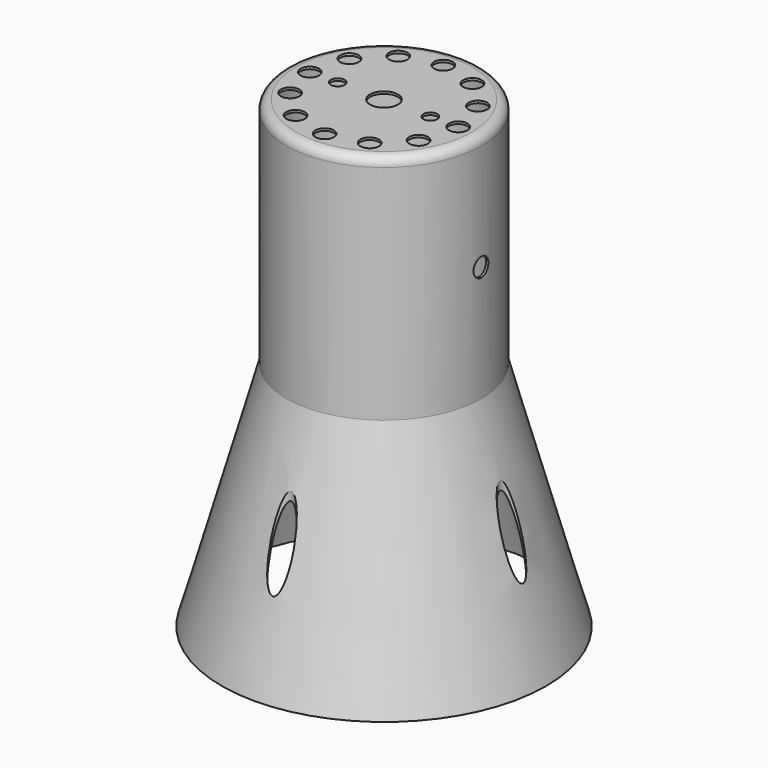
from build123d import *

# Parameters (mm, degrees)
F0_W     = 21
F0_H     = 50
F2_R     = 2
F3_T     = -0.5
F5_DEPTH = 63.2
F6_R     = 1.5
F7_DEPTH = 2.2
F9_DEPTH = 23.7


with BuildPart() as f1:
    # F0 (on Front) → F1 (revolve)
    with BuildSketch(Plane.XZ):
        with Locations((-10.5, 25)):
            Rectangle(F0_W, F0_H)
        Polygon((0, -50), (0, 0), (-21, 0), (-35, -50), align=None)
    revolve(axis=Axis((0, 0, 25), (0, 0, 1)))

    # F2
    f2_edges = [f1.edges().sort_by_distance(p)[0] for p in [
        (21, 0, 50),
    ]]
    fillet(f2_edges, radius=F2_R)

    # F3
    f3_openings = [f1.faces().sort_by_distance(p)[0] for p in [
        (0, 0, -50),
    ]]
    offset(amount=F3_T, openings=f3_openings, kind=Kind.INTERSECTION)

    # F4 (on Top) → F5 (cut)
    with BuildSketch(Plane.XY):
        with BuildLine():
            ThreePointArc((-2.49741602, 27.3863636364), (0, 27.5), (2.49741602, 27.3863636364))
            ThreePointArc((2.49741602, 27.3863636364), (2.4993539215, 27.4431671308), (2.5, 27.5))
            ThreePointArc((2.5, 27.5), (-0.0568328692, 29.9993539215), (-2.49741602, 27.3863636364))
        make_face()
        with BuildLine():
            ThreePointArc((-2.49741602, 27.3863636364), (0, 25), (2.49741602, 27.3863636364))
            ThreePointArc((2.49741602, 27.3863636364), (0, 27.5), (-2.49741602, 27.3863636364))
        make_face()
        with BuildLine():
            ThreePointArc((-25, 0), (-25.6925029863, 1.7271231993), (-27.3863636364, 2.49741602))
            ThreePointArc((-27.3863636364, 2.49741602), (-27.5, 0), (-27.3863636364, -2.49741602))
            ThreePointArc((-27.3863636364, -2.49741602), (-25.6925029863, -1.7271231993), (-25, 0))
        make_face()
        with BuildLine():
            ThreePointArc((-27.3863636364, -2.49741602), (-27.5, 0), (-27.3863636364, 2.49741602))
            ThreePointArc((-27.3863636364, 2.49741602), (-30, 0), (-27.3863636364, -2.49741602))
        make_face()
        with BuildLine():
            ThreePointArc((27.3863636364, -2.49741602), (27.4715762198, -1.25), (27.5, 0))
            ThreePointArc((27.5, 0), (27.4715762198, 1.25), (27.3863636364, 2.49741602))
            ThreePointArc((27.3863636364, 2.49741602), (25, 0), (27.3863636364, -2.49741602))
        make_face()
        with BuildLine():
            ThreePointArc((27.3863636364, 2.49741602), (27.4715762198, 1.25), (27.5, 0))
            ThreePointArc((27.5, 0), (27.4715762198, -1.25), (27.3863636364, -2.49741602))
            ThreePointArc((27.3863636364, -2.49741602), (29.2271231993, -1.8074970137), (30, 0))
            ThreePointArc((30, 0), (29.2271231993, 1.8074970137), (27.3863636364, 2.49741602))
        make_face()
        with BuildLine():
            ThreePointArc((-2.49741602, -27.3863636364), (0, -27.5), (2.49741602, -27.3863636364))
            ThreePointArc((2.49741602, -27.3863636364), (0, -25), (-2.49741602, -27.3863636364))
        make_face()
        with BuildLine():
            ThreePointArc((2.5, -27.5), (2.4993539215, -27.4431671308), (2.49741602, -27.3863636364))
            ThreePointArc((2.49741602, -27.3863636364), (0, -27.5), (-2.49741602, -27.3863636364))
            ThreePointArc((-2.49741602, -27.3863636364), (-0.0568328692, -29.9993539215), (2.5, -27.5))
        make_face()
    extrude(amount=-F5_DEPTH, mode=Mode.SUBTRACT)

    # F6 (on face) → F7 (cut)
    with BuildSketch(Plane.XY.offset(50)):
        with BuildLine():
            ThreePointArc((-1.9960899278, 15.875), (0, 14), (1.9960899278, 15.875))
            ThreePointArc((1.9960899278, 15.875), (0, 16), (-1.9960899278, 15.875))
        make_face()
        with BuildLine():
            ThreePointArc((-1.9960899278, 15.875), (0, 16), (1.9960899278, 15.875))
            ThreePointArc((1.9960899278, 15.875), (1.999022243, 15.9374694301), (2, 16))
            ThreePointArc((2, 16), (-0.0625305699, 17.999022243), (-1.9960899278, 15.875))
        make_face()
        with BuildLine():
            ThreePointArc((-15.875, -1.9960899278), (-16, 0), (-15.875, 1.9960899278))
            ThreePointArc((-15.875, 1.9960899278), (-18, 0), (-15.875, -1.9960899278))
        make_face()
        with BuildLine():
            ThreePointArc((-14, 0), (-14.5422620263, 1.3693063938), (-15.875, 1.9960899278))
            ThreePointArc((-15.875, 1.9960899278), (-16, 0), (-15.875, -1.9960899278))
            ThreePointArc((-15.875, -1.9960899278), (-14.5422620263, -1.3693063938), (-14, 0))
        make_face()
        with BuildLine():
            ThreePointArc((-1.9960899278, -15.875), (0, -16), (1.9960899278, -15.875))
            ThreePointArc((1.9960899278, -15.875), (0, -14), (-1.9960899278, -15.875))
        make_face()
        with BuildLine():
            ThreePointArc((2, -16), (1.999022243, -15.9374694301), (1.9960899278, -15.875))
            ThreePointArc((1.9960899278, -15.875), (0, -16), (-1.9960899278, -15.875))
            ThreePointArc((-1.9960899278, -15.875), (-0.0625305699, -17.999022243), (2, -16))
        make_face()
        with BuildLine():
            ThreePointArc((16, 0), (15.9687194227, 1), (15.875, 1.9960899278))
            ThreePointArc((15.875, 1.9960899278), (14, 0), (15.875, -1.9960899278))
            ThreePointArc((15.875, -1.9960899278), (15.9687194227, -1), (16, 0))
        make_face()
        with BuildLine():
            ThreePointArc((18, 0), (17.3693063938, 1.4577379737), (15.875, 1.9960899278))
            ThreePointArc((15.875, 1.9960899278), (15.9687194227, 1), (16, 0))
            ThreePointArc((16, 0), (15.9687194227, -1), (15.875, -1.9960899278))
            ThreePointArc((15.875, -1.9960899278), (17.3693063938, -1.4577379737), (18, 0))
        make_face()
        with BuildLine():
            ThreePointArc((12.7501083212, 9.6661645857), (13.3293166859, 8.8503851151), (13.8564064606, 8))
            ThreePointArc((13.8564064606, 8), (14.3293166859, 7.1183343076), (14.746198249, 6.2088354143))
            ThreePointArc((14.746198249, 6.2088354143), (15.5563452208, 6.9463358165), (15.8564064606, 8))
            ThreePointArc((15.8564064606, 8), (14.80176452, 9.7624693301), (12.7501083212, 9.6661645857))
        make_face()
        with BuildLine():
            Line((13.8564064606, 8), (12.124355653, 7))
            ThreePointArc((12.124355653, 7), (13.2786215401, 6.0852768906), (14.746198249, 6.2088354143))
            ThreePointArc((14.746198249, 6.2088354143), (14.3293166859, 7.1183343076), (13.8564064606, 8))
        make_face()
        with BuildLine():
            ThreePointArc((12.7501083212, 9.6661645857), (11.9093151464, 8.4569851357), (12.124355653, 7))
            Line((12.124355653, 7), (13.8564064606, 8))
            ThreePointArc((13.8564064606, 8), (13.3293166859, 8.8503851151), (12.7501083212, 9.6661645857))
        make_face()
        with BuildLine():
            ThreePointArc((6.2088354143, 14.746198249), (7.1183343076, 14.3293166859), (8, 13.8564064606))
            ThreePointArc((8, 13.8564064606), (8.8503851151, 13.3293166859), (9.6661645857, 12.7501083212))
            ThreePointArc((9.6661645857, 12.7501083212), (9.9147231094, 13.2786215401), (10, 13.8564064606))
            ThreePointArc((10, 13.8564064606), (8.4569851357, 15.8034977747), (6.2088354143, 14.746198249))
        make_face()
        with BuildLine():
            Line((8, 13.8564064606), (7, 12.124355653))
            ThreePointArc((7, 12.124355653), (8.4569851357, 11.9093151464), (9.6661645857, 12.7501083212))
            ThreePointArc((9.6661645857, 12.7501083212), (8.8503851151, 13.3293166859), (8, 13.8564064606))
        make_face()
        with BuildLine():
            ThreePointArc((6.2088354143, 14.746198249), (6.0852768906, 13.2786215401), (7, 12.124355653))
            Line((7, 12.124355653), (8, 13.8564064606))
            ThreePointArc((8, 13.8564064606), (7.1183343076, 14.3293166859), (6.2088354143, 14.746198249))
        make_face()
        with BuildLine():
            ThreePointArc((-9.6661645857, 12.7501083212), (-8.8503851151, 13.3293166859), (-8, 13.8564064606))
            ThreePointArc((-8, 13.8564064606), (-7.1183343076, 14.3293166859), (-6.2088354143, 14.746198249))
            ThreePointArc((-6.2088354143, 14.746198249), (-9, 15.5884572681), (-9.6661645857, 12.7501083212))
        make_face()
        with BuildLine():
            Line((-8, 13.8564064606), (-7, 12.124355653))
            ThreePointArc((-7, 12.124355653), (-6.2679491924, 12.8564064606), (-6, 13.8564064606))
            ThreePointArc((-6, 13.8564064606), (-6.0529086858, 14.3133915963), (-6.2088354143, 14.746198249))
            ThreePointArc((-6.2088354143, 14.746198249), (-7.1183343076, 14.3293166859), (-8, 13.8564064606))
        make_face()
        with BuildLine():
            ThreePointArc((-9.6661645857, 12.7501083212), (-8.4569851357, 11.9093151464), (-7, 12.124355653))
            Line((-7, 12.124355653), (-8, 13.8564064606))
            ThreePointArc((-8, 13.8564064606), (-8.8503851151, 13.3293166859), (-9.6661645857, 12.7501083212))
        make_face()
        with BuildLine():
            ThreePointArc((-14.746198249, 6.2088354143), (-14.3293166859, 7.1183343076), (-13.8564064606, 8))
            ThreePointArc((-13.8564064606, 8), (-13.3293166859, 8.8503851151), (-12.7501083212, 9.6661645857))
            ThreePointArc((-12.7501083212, 9.6661645857), (-15.5884572681, 9), (-14.746198249, 6.2088354143))
        make_face()
        with BuildLine():
            Line((-13.8564064606, 8), (-12.124355653, 7))
            ThreePointArc((-12.124355653, 7), (-11.924554808, 7.4823619098), (-11.8564064606, 8))
            ThreePointArc((-11.8564064606, 8), (-12.0939371305, 8.9453580595), (-12.7501083212, 9.6661645857))
            ThreePointArc((-12.7501083212, 9.6661645857), (-13.3293166859, 8.8503851151), (-13.8564064606, 8))
        make_face()
        with BuildLine():
            ThreePointArc((-14.746198249, 6.2088354143), (-13.2786215401, 6.0852768906), (-12.124355653, 7))
            Line((-12.124355653, 7), (-13.8564064606, 8))
            ThreePointArc((-13.8564064606, 8), (-14.3293166859, 7.1183343076), (-14.746198249, 6.2088354143))
        make_face()
        with BuildLine():
            ThreePointArc((-12.7501083212, -9.6661645857), (-13.3293166859, -8.8503851151), (-13.8564064606, -8))
            ThreePointArc((-13.8564064606, -8), (-14.3293166859, -7.1183343076), (-14.746198249, -6.2088354143))
            ThreePointArc((-14.746198249, -6.2088354143), (-15.5884572681, -9), (-12.7501083212, -9.6661645857))
        make_face()
        with BuildLine():
            Line((-13.8564064606, -8), (-12.124355653, -7))
            ThreePointArc((-12.124355653, -7), (-13.2786215401, -6.0852768906), (-14.746198249, -6.2088354143))
            ThreePointArc((-14.746198249, -6.2088354143), (-14.3293166859, -7.1183343076), (-13.8564064606, -8))
        make_face()
        with BuildLine():
            ThreePointArc((-11.8564064606, -8), (-11.924554808, -7.4823619098), (-12.124355653, -7))
            Line((-12.124355653, -7), (-13.8564064606, -8))
            ThreePointArc((-13.8564064606, -8), (-13.3293166859, -8.8503851151), (-12.7501083212, -9.6661645857))
            ThreePointArc((-12.7501083212, -9.6661645857), (-12.0939371305, -8.9453580595), (-11.8564064606, -8))
        make_face()
        with BuildLine():
            ThreePointArc((-6.2088354143, -14.746198249), (-7.1183343076, -14.3293166859), (-8, -13.8564064606))
            ThreePointArc((-8, -13.8564064606), (-8.8503851151, -13.3293166859), (-9.6661645857, -12.7501083212))
            ThreePointArc((-9.6661645857, -12.7501083212), (-9, -15.5884572681), (-6.2088354143, -14.746198249))
        make_face()
        with BuildLine():
            Line((-8, -13.8564064606), (-7, -12.124355653))
            ThreePointArc((-7, -12.124355653), (-8.4569851357, -11.9093151464), (-9.6661645857, -12.7501083212))
            ThreePointArc((-9.6661645857, -12.7501083212), (-8.8503851151, -13.3293166859), (-8, -13.8564064606))
        make_face()
        with BuildLine():
            ThreePointArc((-6, -13.8564064606), (-6.2679491924, -12.8564064606), (-7, -12.124355653))
            Line((-7, -12.124355653), (-8, -13.8564064606))
            ThreePointArc((-8, -13.8564064606), (-7.1183343076, -14.3293166859), (-6.2088354143, -14.746198249))
            ThreePointArc((-6.2088354143, -14.746198249), (-6.0529086858, -14.3133915963), (-6, -13.8564064606))
        make_face()
        with BuildLine():
            ThreePointArc((9.6661645857, -12.7501083212), (8.8503851151, -13.3293166859), (8, -13.8564064606))
            ThreePointArc((8, -13.8564064606), (7.1183343076, -14.3293166859), (6.2088354143, -14.746198249))
            ThreePointArc((6.2088354143, -14.746198249), (8.4569851357, -15.8034977747), (10, -13.8564064606))
            ThreePointArc((10, -13.8564064606), (9.9147231094, -13.2786215401), (9.6661645857, -12.7501083212))
        make_face()
        with BuildLine():
            Line((8, -13.8564064606), (7, -12.124355653))
            ThreePointArc((7, -12.124355653), (6.0852768906, -13.2786215401), (6.2088354143, -14.746198249))
            ThreePointArc((6.2088354143, -14.746198249), (7.1183343076, -14.3293166859), (8, -13.8564064606))
        make_face()
        with BuildLine():
            ThreePointArc((9.6661645857, -12.7501083212), (8.4569851357, -11.9093151464), (7, -12.124355653))
            Line((7, -12.124355653), (8, -13.8564064606))
            ThreePointArc((8, -13.8564064606), (8.8503851151, -13.3293166859), (9.6661645857, -12.7501083212))
        make_face()
        with BuildLine():
            ThreePointArc((14.746198249, -6.2088354143), (14.3293166859, -7.1183343076), (13.8564064606, -8))
            ThreePointArc((13.8564064606, -8), (13.3293166859, -8.8503851151), (12.7501083212, -9.6661645857))
            ThreePointArc((12.7501083212, -9.6661645857), (14.80176452, -9.7624693301), (15.8564064606, -8))
            ThreePointArc((15.8564064606, -8), (15.5563452208, -6.9463358165), (14.746198249, -6.2088354143))
        make_face()
        with BuildLine():
            Line((13.8564064606, -8), (12.124355653, -7))
            ThreePointArc((12.124355653, -7), (11.9093151464, -8.4569851357), (12.7501083212, -9.6661645857))
            ThreePointArc((12.7501083212, -9.6661645857), (13.3293166859, -8.8503851151), (13.8564064606, -8))
        make_face()
        with BuildLine():
            ThreePointArc((14.746198249, -6.2088354143), (13.2786215401, -6.0852768906), (12.124355653, -7))
            Line((12.124355653, -7), (13.8564064606, -8))
            ThreePointArc((13.8564064606, -8), (14.3293166859, -7.1183343076), (14.746198249, -6.2088354143))
        make_face()
        with Locations((-10, 0)):
            Circle(F6_R)
        with BuildLine():
            Line((-3, 0), (0, 0))
            Line((0, 0), (-2.5980762114, 1.5))
            ThreePointArc((-2.5980762114, 1.5), (-2.8977774789, 0.7764571353), (-3, 0))
        make_face()
        with BuildLine():
            Line((-2.5980762114, 1.5), (0, 0))
            Line((0, 0), (-1.5, 2.5980762114))
            ThreePointArc((-1.5, 2.5980762114), (-2.1213203436, 2.1213203436), (-2.5980762114, 1.5))
        make_face()
        with BuildLine():
            Line((0, 0), (2.5980762114, 1.5))
            ThreePointArc((2.5980762114, 1.5), (2.1213203436, 2.1213203436), (1.5, 2.5980762114))
            Line((1.5, 2.5980762114), (0, 0))
        make_face()
        with BuildLine():
            Line((0, 0), (3, 0))
            ThreePointArc((3, 0), (2.8977774789, 0.7764571353), (2.5980762114, 1.5))
            Line((2.5980762114, 1.5), (0, 0))
        make_face()
        with BuildLine():
            ThreePointArc((2.5980762114, -1.5), (2.8977774789, -0.7764571353), (3, 0))
            Line((3, 0), (0, 0))
            Line((0, 0), (2.5980762114, -1.5))
        make_face()
        with BuildLine():
            ThreePointArc((1.5, -2.5980762114), (2.1213203436, -2.1213203436), (2.5980762114, -1.5))
            Line((2.5980762114, -1.5), (0, 0))
            Line((0, 0), (1.5, -2.5980762114))
        make_face()
        with BuildLine():
            Line((-1.5, -2.5980762114), (0, 0))
            Line((0, 0), (-2.5980762114, -1.5))
            ThreePointArc((-2.5980762114, -1.5), (-2.1213203436, -2.1213203436), (-1.5, -2.5980762114))
        make_face()
        with BuildLine():
            Line((-2.5980762114, -1.5), (0, 0))
            Line((0, 0), (-3, 0))
            ThreePointArc((-3, 0), (-2.8977774789, -0.7764571353), (-2.5980762114, -1.5))
        make_face()
        with BuildLine():
            Line((1.5, -2.5980762114), (0, 0))
            Line((0, 0), (-1.5, -2.5980762114))
            ThreePointArc((-1.5, -2.5980762114), (0, -3), (1.5, -2.5980762114))
        make_face()
        with BuildLine():
            Line((-1.5, 2.5980762114), (0, 0))
            Line((0, 0), (1.5, 2.5980762114))
            ThreePointArc((1.5, 2.5980762114), (0, 3), (-1.5, 2.5980762114))
        make_face()
        with BuildLine():
            ThreePointArc((11.5, 0), (10, 1.5), (8.5, 0))
            ThreePointArc((8.5, 0), (10, -1.5), (11.5, 0))
        make_face()
    extrude(amount=-F7_DEPTH, mode=Mode.SUBTRACT)

    # F8 (on Right) → F9 (cut, symmetric)
    with BuildSketch(Plane.YZ):
        with BuildLine():
            ThreePointArc((0, 23), (1.4142135624, 23.5857864376), (2, 25))
            ThreePointArc((2, 25), (-1.4142135624, 26.4142135624), (0, 23))
        make_face()
    extrude(amount=F9_DEPTH, both=True, mode=Mode.SUBTRACT)


solid = f1.part
